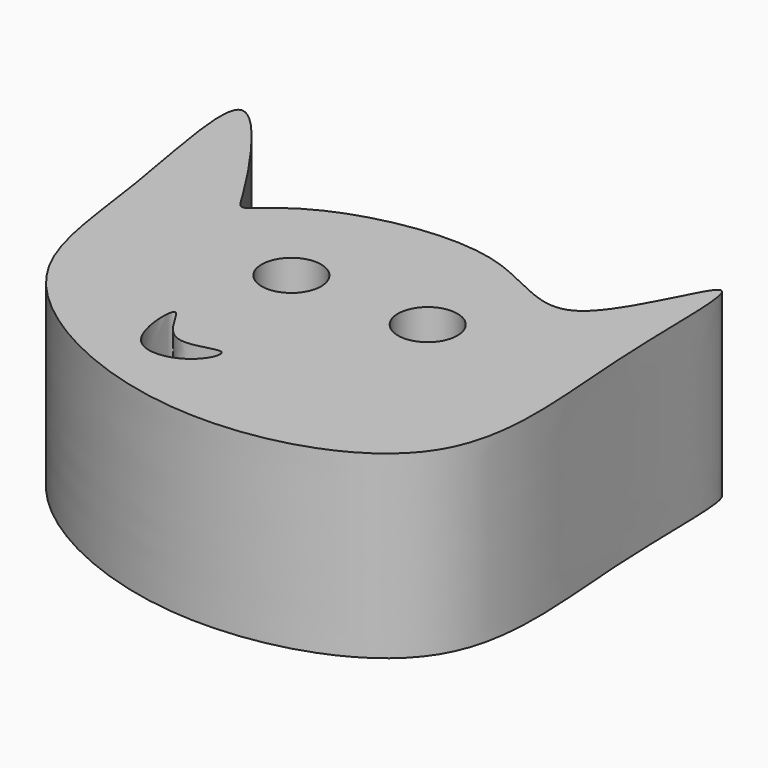
from build123d import *

# Parameters (mm, degrees)
F1_DEPTH = 25.4
F2_R     = 4.191
F3_DEPTH = 25.4


with BuildPart() as f1:
    # F0 (on Top) → F1 (new body)
    with BuildSketch(Plane.XY):
        with BuildLine():
            add(Edge.make_bspline(
                [(-42.8514108062, 21.2186947465), (-44.3268118201, 30.5268033366), (-49.6829000505, 53.5983472666), (-31.6644929782, 26.4692395328), (-30.2658704048, 23.3944824767), (-27.3580280224, 26.320101718), (-20.0497046803, 31.2130721735), (0.2516572719, 34.5832046445), (15.0225386336, 20.8520136911), (25.2566801168, 51.6125008839), (23.7827540764, 19.6760959158), (29.7483761587, -11.7179638818), (-7.1116814767, -22.8265440505), (-40.922249543, -4.8451840082), (-41.243498032, 11.0745871004), (-42.8514108062, 21.2186947465)],
                knots=[0, 0, 0, 0, 0.0848637145, 0.1680935252, 0.1998783833, 0.2309722911, 0.285964599, 0.3690802428, 0.439666307, 0.514755847, 0.5944545024, 0.6978520507, 0.8000921614, 0.9075143304, 1, 1, 1, 1], degree=3))
        make_face()
    extrude(amount=F1_DEPTH)

    # F2 (on face) → F3 (cut)
    with BuildSketch(Plane.XY.offset(25.4)):
        with Locations((-15.7313544528, 14.8013656155)):
            Circle(F2_R)
        with Locations((3.3106912559, 15.008344315)):
            Circle(F2_R)
        with BuildLine():
            add(Edge.make_bspline(
                [(-20.2871412039, 0), (-19.6864639807, 0.139877269), (-17.2999964436, -7.4868556319), (-8.8221302548, -2.336859719), (-11.3557907609, -8.8646285726), (-20.8105110204, -10.2923430669), (-20.9603448263, -0.1567661975), (-20.2871412039, 0)],
                knots=[0, 0, 0, 0, 0.2010240471, 0.4007461458, 0.5555518241, 0.7747040982, 1, 1, 1, 1], degree=3))
        make_face()
    extrude(amount=-F3_DEPTH, mode=Mode.SUBTRACT)


solid = f1.part
